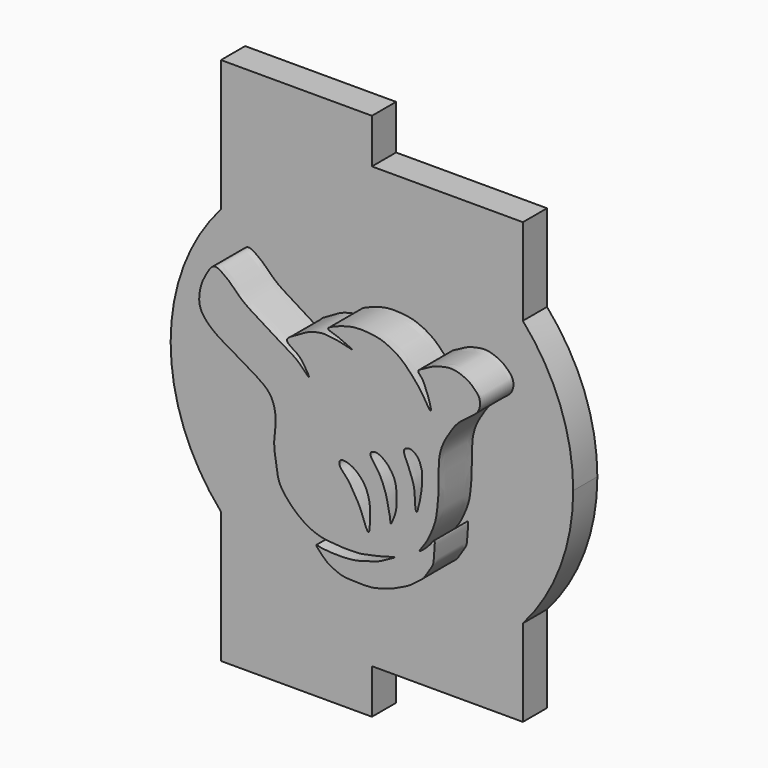
from build123d import *

# Parameters (mm, degrees)
F1_DEPTH = 5
F2_DEPTH = 2.1


with BuildPart() as f1:
    # F0 (on Front) → F1 (new body)
    with BuildSketch(Plane.XZ):
        with BuildLine():
            add(Edge.make_bspline(
                [(-1.54710887, -7.2026806884), (-1.5714022816, -7.2556947029), (-1.1024298731, -7.7453036432), (-0.7778983012, -8.0639370539), (-0.2066323452, -8.3416437166), (0.3326687358, -8.5516990853), (1.0138306321, -8.5537472646), (1.6954487308, -8.5957895148), (2.3921853206, -8.5630242221), (3.053772806, -8.3770805223), (3.7072739478, -8.189951125), (4.2926992308, -7.8850400927), (4.9126628675, -7.624875456), (5.4124378942, -7.1924056499), (5.924040299, -6.869011896), (6.2109884583, -6.324141205), (6.6207950176, -5.7925023908), (6.6244121236, -5.2583521431), (6.7639344538, -3.9835134937), (6.3846380458, -4.6727948873), (5.3079451979, -5.5838786057), (6.1218984803, -4.5652559271), (6.4070953996, -3.9386268467), (6.784511678, -3.0425106229), (6.8721749353, -2.1428468024), (6.9629586119, -1.3333357087), (6.9351932866, -0.5587490641), (6.9582636275, -0.1125937975), (6.9638690546, 0.3971102014), (6.9886103185, 0.8885003296), (7.1019341821, 1.446448609), (7.318433989, 2.009021543), (7.6351718808, 2.52834946), (7.9367707882, 3.0243317102), (8.3492148225, 3.546115569), (8.8385801488, 3.8865601447), (9.229119525, 4.2034098288), (9.668200122, 4.492146706), (9.8838862648, 5.0226847085), (9.8033778941, 5.5747024529), (9.4197889803, 5.9592202424), (9.1276170187, 6.2251604091), (8.6532143131, 6.4695115906), (8.1446004084, 6.6338840478), (7.651960052, 6.6595853458), (7.1122141562, 6.5433998673), (6.6419990819, 6.4131944029), (6.193706711, 6.1737670737), (5.8856458796, 5.9841495527), (5.3942958869, 5.7812132158), (5.81214322, 5.4236017907), (5.9812970587, 5.0518786047), (6.1509246733, 4.6261781577), (6.2751162061, 4.3076190528), (6.5589881158, 3.2750657417), (5.9884976585, 4.1304298355), (5.8052313848, 4.5011832964), (5.4317860342, 4.9770254094), (5.1242383891, 5.328181282), (4.7514765015, 5.7302321929), (4.4190822378, 6.0447620005), (3.9635324199, 6.3850227619), (3.4977422696, 6.6174905864), (2.971801794, 6.8411149294), (2.3358715196, 6.9690628347), (1.6382500286, 7.0058099014), (1.0209585483, 6.9974231015), (0.2825740376, 6.8013530942), (-0.1733492359, 6.6326564949), (-0.9865034735, 6.2938488031), (-0.2015831608, 6.089469136), (0.0689455439, 5.9839676668), (1.3882003442, 5.4201194472), (0.2509857561, 5.7554358539), (-0.3410174619, 5.8230984276), (-0.9885652276, 5.9250169044), (-1.5968735631, 5.83231375), (-2.2960342588, 5.6011850295), (-2.721764598, 5.2634806835), (-3.9834268869, 4.7116284575), (-2.9300964524, 4.1487421169), (-2.5317376874, 3.7873752894), (-1.7314889543, 2.4509367484), (-2.8578574434, 3.7649616122), (-3.7765909058, 4.2099840988), (-4.7756357365, 4.8752901357), (-5.6706439018, 5.4191168203), (-6.3789340308, 5.8385893947), (-6.9871007439, 6.3343459742), (-7.4790036899, 6.8844633905), (-7.981043123, 7.2655545343), (-8.6967696294, 7.7633646281), (-9.2266334733, 6.8847216067), (-9.6044895588, 6.1248518404), (-9.7970075848, 4.8861315647), (-9.265769161, 4.0365799476), (-8.4415217617, 3.3525570848), (-7.401956768, 2.7627475447), (-6.4580512541, 2.2195350495), (-5.4924062838, 1.6473312567), (-4.5672050669, 0.9468680966), (-4.2733265657, -0.5426607653), (-4.5621657048, -1.7921322275), (-4.3657479377, -2.955122333), (-4.226304176, -4.1242043293), (-3.7412971037, -4.8894495756), (-3.0305743479, -5.6262078056), (-2.2076730787, -6.2680907125), (-1.1551297617, -6.6816374056), (-0.1368661608, -6.7203435604), (0.4214539306, -6.7837111889), (0.9936119697, -6.7535524835), (1.5015295571, -6.7604056262), (2.1211413178, -6.6338392951), (2.7032079702, -6.5126363182), (3.2191551253, -6.3455394173), (4.2180264763, -6.0674446496), (3.2944215205, -6.5199815582), (2.8762450769, -6.77981168), (2.3160097214, -6.9559971564), (1.7725282272, -7.1216530032), (1.1686958123, -7.2774676554), (0.5847391242, -7.3354130793), (0.1119074651, -7.3531733314), (-0.3851206627, -7.349530941), (-0.8340122168, -7.2923106759), (-1.221044967, -7.2906187448), (-1.5306546314, -7.1667736177), (-1.54710887, -7.2026806884)],
                knots=[0, 0, 0, 0, 0.0076244429, 0.0148228168, 0.0222938595, 0.029671582, 0.0375800363, 0.0456163817, 0.0536594075, 0.0616711128, 0.0696259517, 0.0774752497, 0.0853837057, 0.0932282112, 0.1006516206, 0.1082206289, 0.115831984, 0.1234952931, 0.1326570988, 0.1393013796, 0.1487061688, 0.1568815732, 0.1657112239, 0.1750456667, 0.1842596953, 0.1930758665, 0.2015021173, 0.2079813662, 0.2147836592, 0.2215932948, 0.2288559586, 0.2363751009, 0.243887001, 0.2512797694, 0.2591380935, 0.2665908862, 0.2734457285, 0.2803537008, 0.2874661947, 0.2945127879, 0.3014839334, 0.3075841402, 0.3145800703, 0.3216589299, 0.3284151902, 0.3355546067, 0.3423742091, 0.3491472531, 0.355291336, 0.3612167914, 0.3672983142, 0.3737671732, 0.3800414773, 0.386451967, 0.3942206918, 0.40164908, 0.4086535336, 0.4159257408, 0.4226523222, 0.4297229274, 0.4363221634, 0.4435474752, 0.450543408, 0.4578029171, 0.4656064112, 0.4736539812, 0.4813316069, 0.4895728645, 0.4969865879, 0.5042123697, 0.5108704678, 0.5176442834, 0.5267129919, 0.5343860568, 0.5426602731, 0.5502543167, 0.5578904824, 0.5659201301, 0.57366693, 0.5831895886, 0.5915591708, 0.6000162038, 0.6090676805, 0.6187823653, 0.6294304476, 0.6398824162, 0.6498084785, 0.658556504, 0.667089554, 0.6753127782, 0.6832243053, 0.6912078103, 0.6999387773, 0.709247419, 0.7197246333, 0.7291375579, 0.7391015853, 0.7496787832, 0.7598039447, 0.7700150957, 0.780207019, 0.7917558544, 0.8027092691, 0.8131864822, 0.8235711965, 0.8326600615, 0.842366657, 0.8522501182, 0.8625424666, 0.8722279246, 0.8794800084, 0.8866613321, 0.893588028, 0.9012525404, 0.9085853368, 0.9164122789, 0.9239366814, 0.9314418024, 0.9389415916, 0.9461377832, 0.9534731712, 0.9611272119, 0.9685194702, 0.9751800556, 0.981973038, 0.9884359826, 0.9948358672, 1, 1, 1, 1], degree=3))
        make_face()
        with BuildLine():
            add(Edge.make_bspline(
                [(2.0788342226, -5.24381781), (2.1465243707, -5.2335194099), (2.1992160415, -4.6217988602), (2.2108244023, -4.0447335805), (2.1673515423, -3.3502971536), (1.9545962949, -2.6326898651), (1.6121145795, -2.1129117602), (1.0872429151, -1.634643544), (0.5527239854, -1.4107113367), (0.0563284697, -1.3940483774), (0.0344473781, -1.8393125051), (0.3100245558, -2.1269522286), (0.559404564, -2.3817055704), (0.846048216, -2.7738393555), (1.0641105096, -3.1468885264), (1.2501058998, -3.4610050365), (1.4739150282, -3.8756041737), (1.6258371524, -4.256375962), (1.7930239317, -4.7261640139), (2.0126654532, -5.253884747), (2.0788342226, -5.24381781)],
                knots=[0, 0, 0, 0, 0.0577126962, 0.1217984461, 0.1860078843, 0.252992634, 0.3144664211, 0.3795145369, 0.439841477, 0.4887096601, 0.5335260507, 0.5821830808, 0.629127029, 0.6833467607, 0.7346073471, 0.7818576188, 0.8349019956, 0.8841865395, 0.943584433, 1, 1, 1, 1], degree=3))
        make_face(mode=Mode.SUBTRACT)
        with BuildLine():
            add(Edge.make_bspline(
                [(3.6367734428, -4.2084120214), (3.6766498164, -4.2185711678), (3.8452986006, -3.7961766905), (4.0063581887, -3.3497101578), (4.0425050692, -2.8088930591), (4.0440943249, -2.3390623424), (4.0004292622, -1.7687106948), (3.8667573406, -1.2724816993), (3.4782445097, -0.7135318262), (3.1754207608, -0.4497437281), (2.6587184253, -0.1052149867), (2.0722532956, -0.2987175394), (2.4325837412, -0.8754372825), (2.758522871, -1.2638697646), (3.0011101817, -1.7249885327), (3.2469297671, -2.3478079466), (3.3886128164, -2.8511949429), (3.4550797242, -3.3725017732), (3.591801561, -3.7428136424), (3.5962553062, -4.1980893756), (3.6367734428, -4.2084120214)],
                knots=[0, 0, 0, 0, 0.0486289677, 0.1064588668, 0.1623663356, 0.2160028259, 0.2739495901, 0.3302761167, 0.3929244266, 0.443238096, 0.5033795411, 0.5535022608, 0.6098625923, 0.6671455591, 0.7227917269, 0.7861471459, 0.8429414398, 0.8977532937, 0.9505884067, 1, 1, 1, 1], degree=3))
        make_face(mode=Mode.SUBTRACT)
        with BuildLine():
            add(Edge.make_bspline(
                [(5.4233879782, -2.9249803629), (5.4664886373, -2.9289829691), (5.5768946595, -2.5290499713), (5.6588516359, -2.1771096192), (5.7307284732, -1.6792227719), (5.8076926539, -1.2771087757), (5.7892072419, -0.7800471538), (5.8335285473, -0.39278376), (5.7408201389, -0.0777063568), (5.6417963113, 0.2808608778), (5.3520344689, 0.6475557419), (5.0151065371, 0.8425224852), (4.4973442715, 0.7227936498), (4.571998853, 0.2712513582), (4.7983544356, -0.1345758853), (4.9128757941, -0.4938047605), (5.087697496, -0.9124358032), (5.212043097, -1.2488607972), (5.2740075668, -1.627505158), (5.3157301644, -2.1100642138), (5.3069677587, -2.4683184335), (5.3777841345, -2.9207452947), (5.4233879782, -2.9249803629)],
                knots=[0, 0, 0, 0, 0.0470868545, 0.0986032784, 0.1526420393, 0.2031754983, 0.2579499482, 0.3064619289, 0.3503555197, 0.397802726, 0.4503862044, 0.4987765152, 0.5490737437, 0.5963499856, 0.6501681839, 0.6984051154, 0.7505549799, 0.7972050329, 0.8454804549, 0.898706373, 0.950178452, 1, 1, 1, 1], degree=3))
        make_face(mode=Mode.SUBTRACT)
    extrude(amount=F1_DEPTH)

    # F0 (on Front) → F2 (join)
    with BuildSketch(Plane.XZ):
        with BuildLine():
            Line((-10.5, 18.4), (-10.5, 9.2601295887))
            ThreePointArc((-10.5, 9.2601295887), (-13.0958008537, 4.9497474683), (-14, 0))
            ThreePointArc((-14, 0), (-13.0958008537, -4.9497474683), (-10.5, -9.2601295887))
            Line((-10.5, -9.2601295887), (-10.5, -18.4))
            Line((-10.5, -18.4), (0, -18.4))
            Line((0, -18.4), (0, -15.3))
            Line((0, -15.3), (10.5, -15.3))
            Line((10.5, -15.3), (10.5, -9.2601295887))
            ThreePointArc((10.5, -9.2601295887), (13.0958008537, -4.9497474683), (14, 0))
            ThreePointArc((14, 0), (13.0958008537, 4.9497474683), (10.5, 9.2601295887))
            Line((10.5, 9.2601295887), (10.5, 15.3))
            Line((10.5, 15.3), (0, 15.3))
            Line((0, 15.3), (0, 18.4))
            Line((0, 18.4), (-10.5, 18.4))
        make_face()
        with BuildLine():
            add(Edge.make_bspline(
                [(-1.54710887, -7.2026806884), (-1.5714022816, -7.2556947029), (-1.1024298731, -7.7453036432), (-0.7778983012, -8.0639370539), (-0.2066323452, -8.3416437166), (0.3326687358, -8.5516990853), (1.0138306321, -8.5537472646), (1.6954487308, -8.5957895148), (2.3921853206, -8.5630242221), (3.053772806, -8.3770805223), (3.7072739478, -8.189951125), (4.2926992308, -7.8850400927), (4.9126628675, -7.624875456), (5.4124378942, -7.1924056499), (5.924040299, -6.869011896), (6.2109884583, -6.324141205), (6.6207950176, -5.7925023908), (6.6244121236, -5.2583521431), (6.7639344538, -3.9835134937), (6.3846380458, -4.6727948873), (5.3079451979, -5.5838786057), (6.1218984803, -4.5652559271), (6.4070953996, -3.9386268467), (6.784511678, -3.0425106229), (6.8721749353, -2.1428468024), (6.9629586119, -1.3333357087), (6.9351932866, -0.5587490641), (6.9582636275, -0.1125937975), (6.9638690546, 0.3971102014), (6.9886103185, 0.8885003296), (7.1019341821, 1.446448609), (7.318433989, 2.009021543), (7.6351718808, 2.52834946), (7.9367707882, 3.0243317102), (8.3492148225, 3.546115569), (8.8385801488, 3.8865601447), (9.229119525, 4.2034098288), (9.668200122, 4.492146706), (9.8838862648, 5.0226847085), (9.8033778941, 5.5747024529), (9.4197889803, 5.9592202424), (9.1276170187, 6.2251604091), (8.6532143131, 6.4695115906), (8.1446004084, 6.6338840478), (7.651960052, 6.6595853458), (7.1122141562, 6.5433998673), (6.6419990819, 6.4131944029), (6.193706711, 6.1737670737), (5.8856458796, 5.9841495527), (5.3942958869, 5.7812132158), (5.81214322, 5.4236017907), (5.9812970587, 5.0518786047), (6.1509246733, 4.6261781577), (6.2751162061, 4.3076190528), (6.5589881158, 3.2750657417), (5.9884976585, 4.1304298355), (5.8052313848, 4.5011832964), (5.4317860342, 4.9770254094), (5.1242383891, 5.328181282), (4.7514765015, 5.7302321929), (4.4190822378, 6.0447620005), (3.9635324199, 6.3850227619), (3.4977422696, 6.6174905864), (2.971801794, 6.8411149294), (2.3358715196, 6.9690628347), (1.6382500286, 7.0058099014), (1.0209585483, 6.9974231015), (0.2825740376, 6.8013530942), (-0.1733492359, 6.6326564949), (-0.9865034735, 6.2938488031), (-0.2015831608, 6.089469136), (0.0689455439, 5.9839676668), (1.3882003442, 5.4201194472), (0.2509857561, 5.7554358539), (-0.3410174619, 5.8230984276), (-0.9885652276, 5.9250169044), (-1.5968735631, 5.83231375), (-2.2960342588, 5.6011850295), (-2.721764598, 5.2634806835), (-3.9834268869, 4.7116284575), (-2.9300964524, 4.1487421169), (-2.5317376874, 3.7873752894), (-1.7314889543, 2.4509367484), (-2.8578574434, 3.7649616122), (-3.7765909058, 4.2099840988), (-4.7756357365, 4.8752901357), (-5.6706439018, 5.4191168203), (-6.3789340308, 5.8385893947), (-6.9871007439, 6.3343459742), (-7.4790036899, 6.8844633905), (-7.981043123, 7.2655545343), (-8.6967696294, 7.7633646281), (-9.2266334733, 6.8847216067), (-9.6044895588, 6.1248518404), (-9.7970075848, 4.8861315647), (-9.265769161, 4.0365799476), (-8.4415217617, 3.3525570848), (-7.401956768, 2.7627475447), (-6.4580512541, 2.2195350495), (-5.4924062838, 1.6473312567), (-4.5672050669, 0.9468680966), (-4.2733265657, -0.5426607653), (-4.5621657048, -1.7921322275), (-4.3657479377, -2.955122333), (-4.226304176, -4.1242043293), (-3.7412971037, -4.8894495756), (-3.0305743479, -5.6262078056), (-2.2076730787, -6.2680907125), (-1.1551297617, -6.6816374056), (-0.1368661608, -6.7203435604), (0.4214539306, -6.7837111889), (0.9936119697, -6.7535524835), (1.5015295571, -6.7604056262), (2.1211413178, -6.6338392951), (2.7032079702, -6.5126363182), (3.2191551253, -6.3455394173), (4.2180264763, -6.0674446496), (3.2944215205, -6.5199815582), (2.8762450769, -6.77981168), (2.3160097214, -6.9559971564), (1.7725282272, -7.1216530032), (1.1686958123, -7.2774676554), (0.5847391242, -7.3354130793), (0.1119074651, -7.3531733314), (-0.3851206627, -7.349530941), (-0.8340122168, -7.2923106759), (-1.221044967, -7.2906187448), (-1.5306546314, -7.1667736177), (-1.54710887, -7.2026806884)],
                knots=[0, 0, 0, 0, 0.0076244429, 0.0148228168, 0.0222938595, 0.029671582, 0.0375800363, 0.0456163817, 0.0536594075, 0.0616711128, 0.0696259517, 0.0774752497, 0.0853837057, 0.0932282112, 0.1006516206, 0.1082206289, 0.115831984, 0.1234952931, 0.1326570988, 0.1393013796, 0.1487061688, 0.1568815732, 0.1657112239, 0.1750456667, 0.1842596953, 0.1930758665, 0.2015021173, 0.2079813662, 0.2147836592, 0.2215932948, 0.2288559586, 0.2363751009, 0.243887001, 0.2512797694, 0.2591380935, 0.2665908862, 0.2734457285, 0.2803537008, 0.2874661947, 0.2945127879, 0.3014839334, 0.3075841402, 0.3145800703, 0.3216589299, 0.3284151902, 0.3355546067, 0.3423742091, 0.3491472531, 0.355291336, 0.3612167914, 0.3672983142, 0.3737671732, 0.3800414773, 0.386451967, 0.3942206918, 0.40164908, 0.4086535336, 0.4159257408, 0.4226523222, 0.4297229274, 0.4363221634, 0.4435474752, 0.450543408, 0.4578029171, 0.4656064112, 0.4736539812, 0.4813316069, 0.4895728645, 0.4969865879, 0.5042123697, 0.5108704678, 0.5176442834, 0.5267129919, 0.5343860568, 0.5426602731, 0.5502543167, 0.5578904824, 0.5659201301, 0.57366693, 0.5831895886, 0.5915591708, 0.6000162038, 0.6090676805, 0.6187823653, 0.6294304476, 0.6398824162, 0.6498084785, 0.658556504, 0.667089554, 0.6753127782, 0.6832243053, 0.6912078103, 0.6999387773, 0.709247419, 0.7197246333, 0.7291375579, 0.7391015853, 0.7496787832, 0.7598039447, 0.7700150957, 0.780207019, 0.7917558544, 0.8027092691, 0.8131864822, 0.8235711965, 0.8326600615, 0.842366657, 0.8522501182, 0.8625424666, 0.8722279246, 0.8794800084, 0.8866613321, 0.893588028, 0.9012525404, 0.9085853368, 0.9164122789, 0.9239366814, 0.9314418024, 0.9389415916, 0.9461377832, 0.9534731712, 0.9611272119, 0.9685194702, 0.9751800556, 0.981973038, 0.9884359826, 0.9948358672, 1, 1, 1, 1], degree=3))
        make_face(mode=Mode.SUBTRACT)
    extrude(amount=F2_DEPTH)


solid = f1.part
